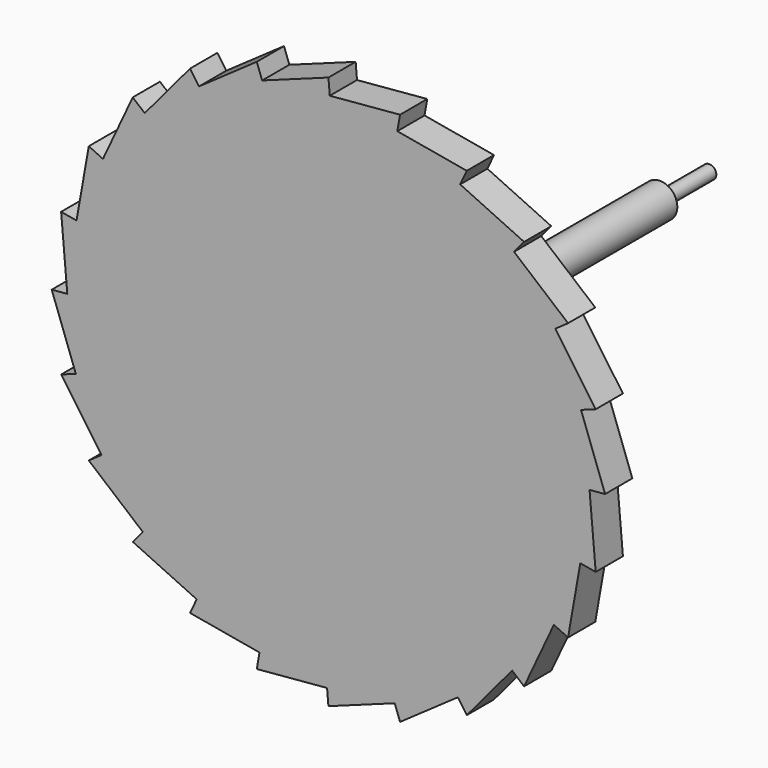
from build123d import *

# Parameters (mm, degrees)
F1_DEPTH = 3.1242
F2_R     = 1.5875
F3_DEPTH = 34.925
F4_R     = 0.635
F5_DEPTH = 5.6642


with BuildPart() as f1:
    # F0 (on Front) → F1 (new body)
    with BuildSketch(Plane.XZ):
        Polygon((0.125082, 23.970308), (0, 25.4), (-6.083153, 23.185914), (-6.574004, 24.534516), (-11.87683, 20.821437), (-12.7, 21.997045), (-16.861121, 17.038014), (-17.960512, 17.960512), (-20.696355, 12.093478), (-21.997045, 12.7), (-23.121166, 6.324792), (-24.534516, 6.574004), (-23.970308, 0.125082), (-25.4, 0), (-23.185914, -6.083153), (-24.534516, -6.574004), (-20.821437, -11.87683), (-21.997045, -12.7), (-17.038014, -16.861121), (-17.960512, -17.960512), (-12.093478, -20.696355), (-12.7, -21.997045), (-6.324792, -23.121166), (-6.574004, -24.534516), (-0.125082, -23.970308), (0, -25.4), (6.083153, -23.185914), (6.574004, -24.534516), (11.87683, -20.821437), (12.7, -21.997045), (16.861121, -17.038014), (17.960512, -17.960512), (20.696355, -12.093478), (21.997045, -12.7), (23.121166, -6.324792), (24.534516, -6.574004), (23.970308, -0.125082), (25.4, 0), (23.185914, 6.083153), (24.534516, 6.574004), (20.821437, 11.87683), (21.997045, 12.7), (17.038014, 16.861121), (17.960512, 17.960512), (12.093478, 20.696355), (12.7, 21.997045), (6.324792, 23.121166), (6.574004, 24.534516), align=None)
    extrude(amount=F1_DEPTH)

    # F2 (on face) → F3 (join)
    with BuildSketch(Plane(origin=(0, 0, 0), x_dir=(-1, 0, 0), z_dir=(0, 1, 0))):
        Circle(F2_R)
    extrude(amount=F3_DEPTH)

    # F4 (on face) → F5 (join)
    with BuildSketch(Plane(origin=(0, 34.925, 0), x_dir=(-1, 0, 0), z_dir=(0, 1, 0))):
        Circle(F4_R)
    extrude(amount=F5_DEPTH)


solid = f1.part
